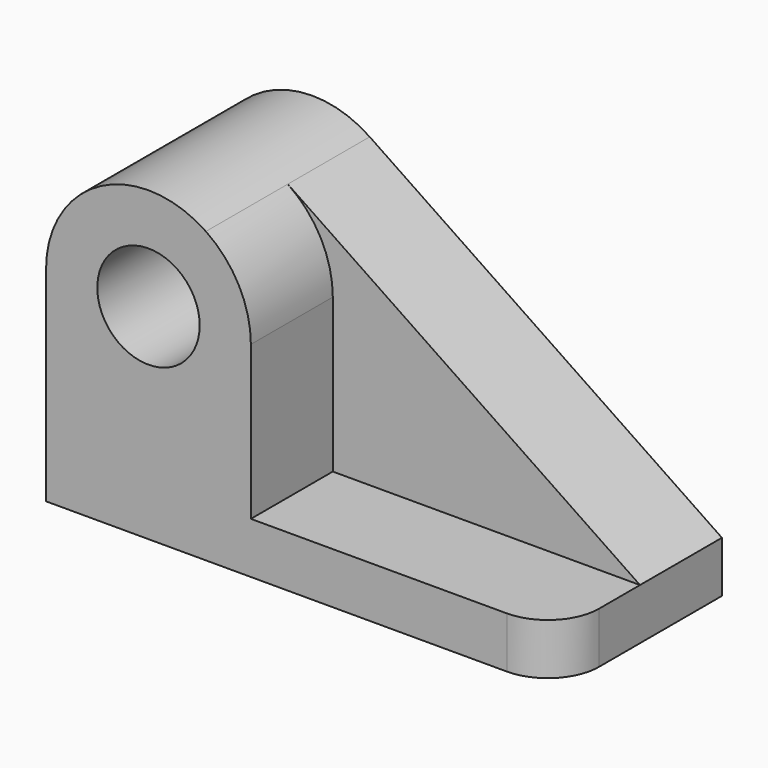
from build123d import *

# Parameters (mm, degrees)
F0_R     = 12.7
F1_DEPTH = 25.4
F2_R     = 12.7
F3_DEPTH = 25.4
F4_R     = 12.7


with BuildPart() as f1:
    # F0 (on Front) → F1 (new body)
    with BuildSketch(Plane.XZ):
        with BuildLine():
            Line((65.301205, 12.7), (-22.060922, 71.834328))
            ThreePointArc((-22.060922, 71.834328), (-48.205054, 73.236599), (-61.698795, 50.8))
            Line((-61.698795, 50.8), (-61.698795, 0))
            Line((-61.698795, 0), (65.301205, 0))
            Line((65.301205, 0), (65.301205, 12.7))
        make_face()
        with Locations((-36.298795, 50.8)):
            Circle(F0_R, mode=Mode.SUBTRACT)
    extrude(amount=F1_DEPTH)

    # F2 (on face) → F3 (join)
    with BuildSketch(Plane.XZ.offset(25.4)):
        with BuildLine():
            Line((-10.898795, 12.7), (-10.898795, 50.8))
            ThreePointArc((-10.898795, 50.8), (-13.862195, 62.706259), (-22.060922, 71.834328))
            ThreePointArc((-22.060922, 71.834328), (-48.205054, 73.236599), (-61.698795, 50.8))
            Line((-61.698795, 50.8), (-61.698795, 12.7))
            Line((-61.698795, 12.7), (-61.698795, 3.413593))
            Line((-61.698795, 3.413593), (-61.698795, 0))
            Line((-61.698795, 0), (65.301205, 0))
            Line((65.301205, 0), (65.301205, 12.7))
            Line((65.301205, 12.7), (-10.898795, 12.7))
        make_face()
        with Locations((-36.298795, 50.8)):
            Circle(F2_R, mode=Mode.SUBTRACT)
    extrude(amount=F3_DEPTH)

    # F4
    f4_edges = [f1.edges().sort_by_distance(p)[0] for p in [
        (65.301205, -50.8, 6.35),
    ]]
    fillet(f4_edges, radius=F4_R)


solid = f1.part
